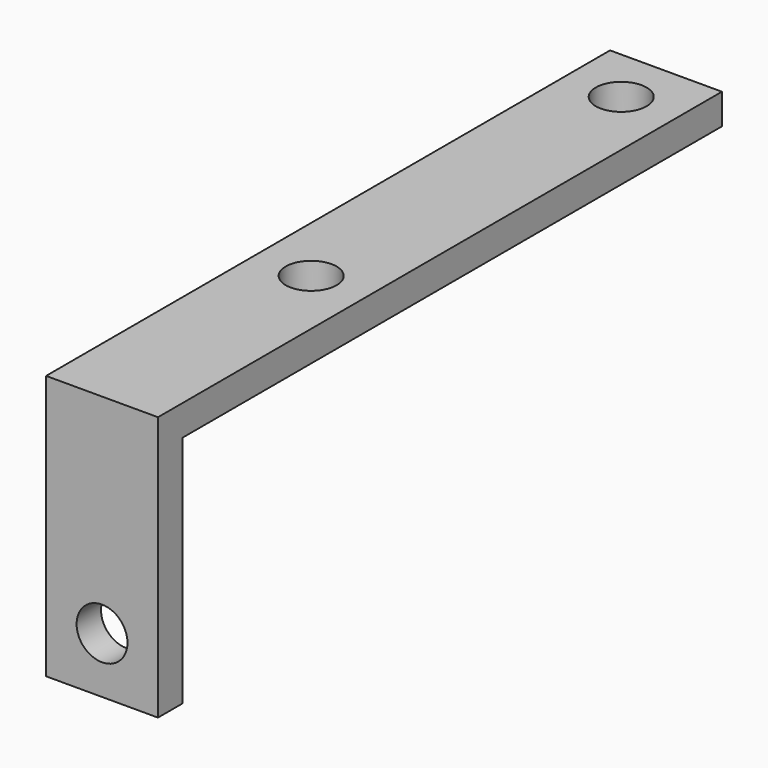
from build123d import *

# Parameters (mm, degrees)
F1_W     = 11
F1_H     = 66.3
F1_R     = 2.5
F2_DEPTH = 3
F3_R     = 2.5
F4_DEPTH = 3


with BuildPart() as f2:
    # F1 (on Top) → F2 (new body)
    with BuildSketch(Plane.XY):
        with Locations((0, 33.15)):
            Rectangle(F1_W, F1_H)
        with Locations((0, 22.7)):
            Circle(F1_R, mode=Mode.SUBTRACT)
        with Locations((0, 60.8)):
            Circle(F1_R, mode=Mode.SUBTRACT)
    extrude(amount=F2_DEPTH)

    # F3 (on Front) → F4 (join)
    with BuildSketch(Plane.XZ):
        Polygon((5.5, -23), (5.5, 0), (5.5, 3), (-5.5, 3), (-5.5, 0), (-5.5, -23), align=None)
        with Locations((0, -17.5)):
            Circle(F3_R, mode=Mode.SUBTRACT)
    extrude(amount=F4_DEPTH)


solid = f2.part
